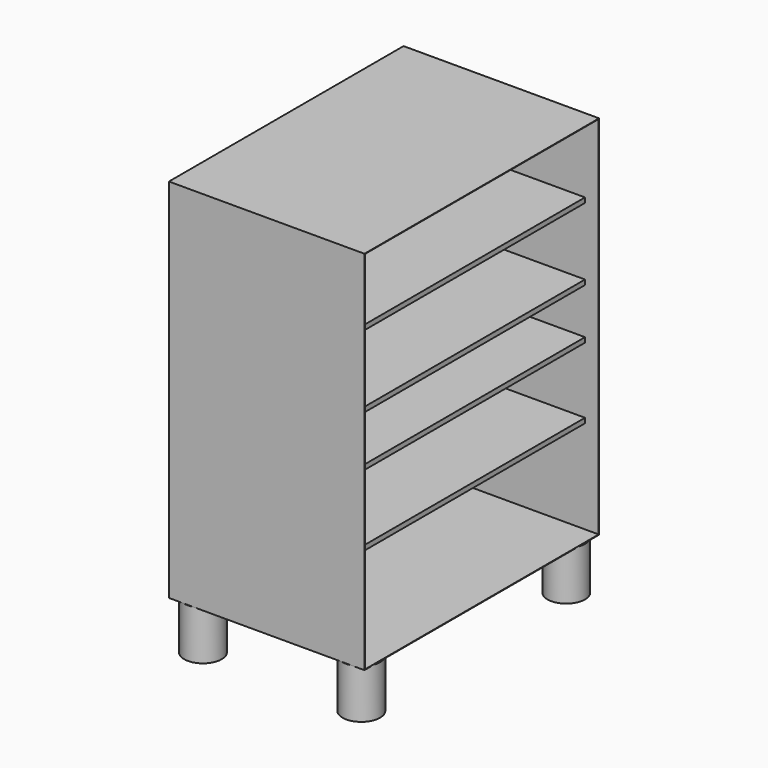
from build123d import *

# Parameters (mm, degrees)
F0_W     = 1524
F0_H     = 1905
F1_DEPTH = 1016
F2_T     = -2.54
F3_W     = 1518.92
F3_H     = 25.4
F4_DEPTH = 942.34
F5_R     = 97.372943
F6_DEPTH = 254


with BuildPart() as f1:
    # F0 (on Right) → F1 (new body)
    with BuildSketch(Plane.YZ):
        with Locations((-46.499569, -13.852631)):
            Rectangle(F0_W, F0_H)
    extrude(amount=F1_DEPTH)

    # F2
    f2_openings = [f1.faces().sort_by_distance(p)[0] for p in [
        (1016, -46.499569, -13.852631),
    ]]
    offset(amount=F2_T, openings=f2_openings)

    # F3 (on face) → F4 (join)
    with BuildSketch(Plane.YZ.offset(2.54)):
        with Locations((-46.499569, -465.910843)):
            Rectangle(F3_W, F3_H)
        with Locations((-46.499569, 542.111227)):
            Rectangle(F3_W, F3_H)
        with Locations((-46.499569, 166.490295)):
            Rectangle(F3_W, F3_H)
        with Locations((-46.499569, -97.188047)):
            Rectangle(F3_W, F3_H)
    extrude(amount=F4_DEPTH)

    # F5 (on face) → F6 (join)
    with BuildSketch(Plane(origin=(0, 0, -966.352631), x_dir=(1, 0, 0), z_dir=(0, 0, -1))):
        with Locations((924.561083, 714.374423)):
            Circle(F5_R)
        with Locations((924.561083, -616.585577)):
            Circle(F5_R)
        with Locations((101.601083, 714.374423)):
            Circle(F5_R)
        with Locations((101.601083, -616.585577)):
            Circle(F5_R)
    extrude(amount=F6_DEPTH)


solid = f1.part
